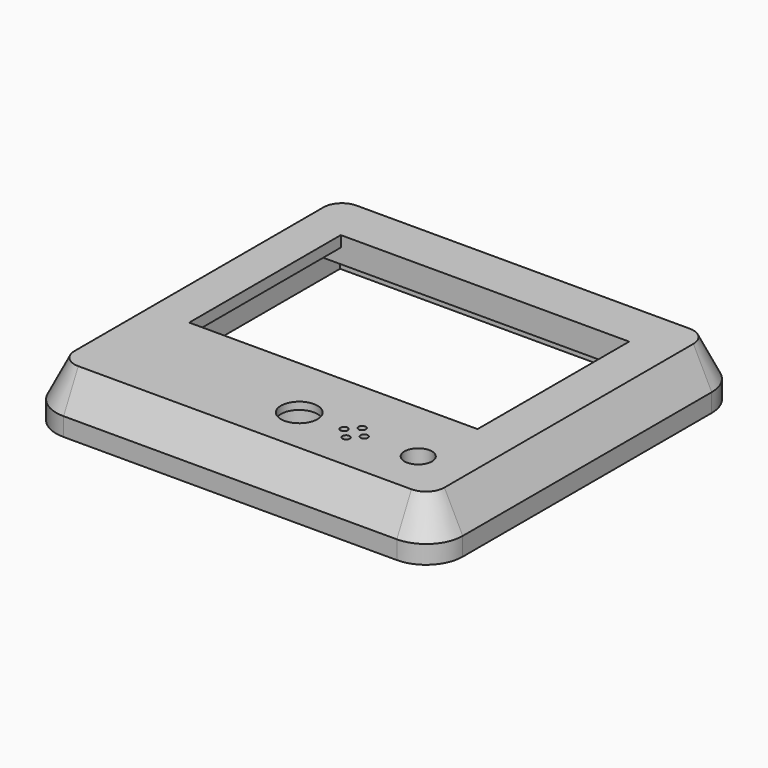
from build123d import *

# Parameters (mm, degrees)
F2_DEPTH  = 15
F3_SIZE2  = 10
F3_SIZE   = 5
F4_W      = 78.75
F4_H      = 51.75
F4_R      = 5
F4_R_2    = 3.75
F4_R_3    = 1
F5_DEPTH  = 15.001
F6_W      = 96
F6_H      = 90
F7_DEPTH  = 8
F8_R      = 1.425
F9_DEPTH  = 1.5
F10_W     = 8.4
F10_H     = 51.75
F11_DEPTH = 4
F12_R     = 7
F13_DEPTH = 5
F15_DEPTH = 5


with BuildPart() as f2:
    # F1 (on Top) → F2 (new body)
    with BuildSketch(Plane.XY):
        with BuildLine():
            Line((45.5, 52.5), (-45.5, 52.5))
            ThreePointArc((-45.5, 52.5), (-52.5710678119, 49.5710678119), (-55.5, 42.5))
            Line((-55.5, 42.5), (-55.5, -42.5))
            ThreePointArc((-55.5, -42.5), (-52.5710678119, -49.5710678119), (-45.5, -52.5))
            Line((-45.5, -52.5), (45.5, -52.5))
            ThreePointArc((45.5, -52.5), (52.5710678119, -49.5710678119), (55.5, -42.5))
            Line((55.5, -42.5), (55.5, 42.5))
            ThreePointArc((55.5, 42.5), (52.5710678119, 49.5710678119), (45.5, 52.5))
        make_face()
    extrude(amount=-F2_DEPTH)

    # F3
    f3_edges = [f2.edges().sort_by_distance(p)[0] for p in [
        (-55.5, 0, 0),
    ]]
    f3_side = f2.faces().sort_by_distance((0, 0, 0))[0]
    chamfer(f3_edges, length=F3_SIZE, length2=F3_SIZE2, reference=f3_side)

    # F4 (on Top) → F5 (cut, through all)
    with BuildSketch(Plane.XY):
        with Locations((-0.225, 8.875)):
            Rectangle(F4_W, F4_H)
        with Locations((4.65, -34.75)):
            Circle(F4_R)
        with Locations((37.15, -34.75)):
            Circle(F4_R_2)
        with Locations((16.9, -34.75)):
            Circle(F4_R_3)
        with Locations((19.65, -32)):
            Circle(F4_R_3)
        with Locations((22.4, -34.75)):
            Circle(F4_R_3)
        with Locations((19.65, -37.5)):
            Circle(F4_R_3)
    extrude(amount=-F5_DEPTH, mode=Mode.SUBTRACT)

    # F6 (on face) → F7 (cut)
    with BuildSketch(Plane(origin=(0, 0, -15), x_dir=(1, 0, 0), z_dir=(0, 0, -1))):
        Rectangle(F6_W, F6_H)
    extrude(amount=-F7_DEPTH, mode=Mode.SUBTRACT)

    # F8 (on face) → F9 (join)
    with BuildSketch(Plane(origin=(0, 0, -7), x_dir=(1, 0, 0), z_dir=(0, 0, -1))):
        with Locations((43.9, -40.9)):
            Circle(F8_R)
        with Locations((-43.9, -40.9)):
            Circle(F8_R)
        with Locations((-43.9, 24.9)):
            Circle(F8_R)
        with Locations((43.9, 24.9)):
            Circle(F8_R)
    extrude(amount=F9_DEPTH)

    # F10 (on face) → F11 (cut)
    with BuildSketch(Plane(origin=(0, 0, -7), x_dir=(1, 0, 0), z_dir=(0, 0, -1))):
        with Locations((-43.8, -8.875)):
            Rectangle(F10_W, F10_H)
    extrude(amount=-F11_DEPTH, mode=Mode.SUBTRACT)

    # F12 (on face) → F13 (cut)
    with BuildSketch(Plane(origin=(0, 0, -7), x_dir=(1, 0, 0), z_dir=(0, 0, -1))):
        with Locations((4.65, 34.75)):
            Circle(F12_R)
        with Locations((19.65, 34.75)):
            Circle(F12_R)
    extrude(amount=-F13_DEPTH, mode=Mode.SUBTRACT)

    # F14 (on face) → F15 (cut)
    with BuildSketch(Plane(origin=(0, 0, -7), x_dir=(1, 0, 0), z_dir=(0, 0, -1))):
        with BuildLine():
            Line((-38.6, 22), (29.15, 22))
            Line((29.15, 22), (29.15, 26))
            Line((29.15, 26), (-17.4708836394, 26))
            ThreePointArc((-17.4708836394, 26), (-26.4833749709, 28.2735239814), (-33.3390120735, 34.55))
            ThreePointArc((-33.3390120735, 34.55), (-43.1741435319, 34.8175816996), (-40.0375, 25.4921928002))
            ThreePointArc((-40.0375, 25.4921928002), (-38.9992189406, 24.7718816144), (-38.6, 23.5729237336))
            Line((-38.6, 23.5729237336), (-38.6, 22))
        make_face()
    extrude(amount=-F15_DEPTH, mode=Mode.SUBTRACT)


solid = f2.part
